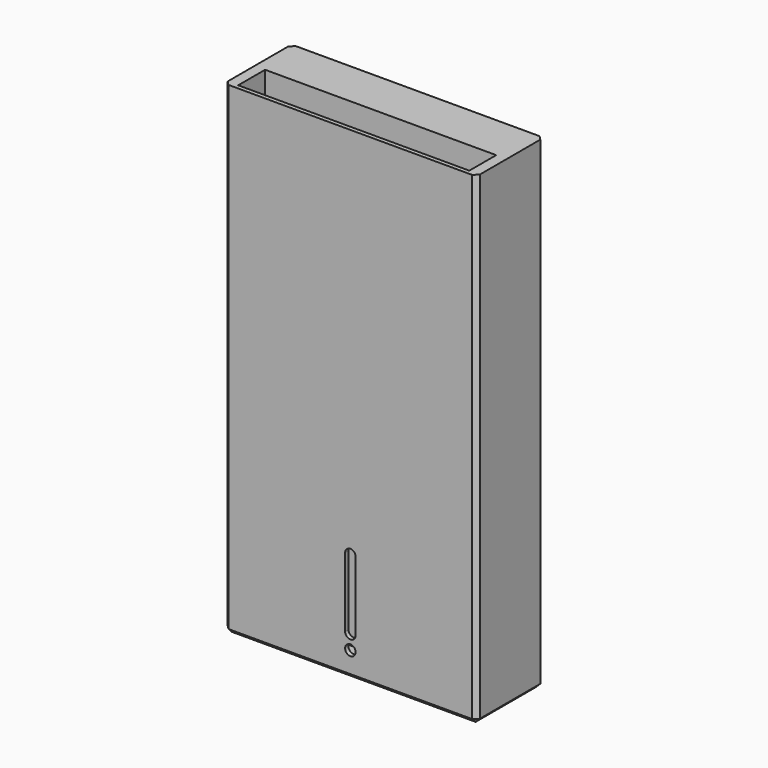
from build123d import *

# Parameters (mm, degrees)
F0_W     = 60
F0_H     = 115
F1_DEPTH = 20
F3_W     = 55.999996
F3_H     = 110.999996
F4_DEPTH = 9
F2_W     = 55
F2_H     = 8
F5_DEPTH = 114
F6_R     = 1.25
F7_DEPTH = 1
F8_SIZE  = 1


with BuildPart() as f1:
    # F0 (on Front) → F1 (new body)
    with BuildSketch(Plane.XZ):
        with Locations((30, 57.5)):
            Rectangle(F0_W, F0_H)
    extrude(amount=F1_DEPTH)

    # F3 (on face) → F4 (cut)
    with BuildSketch(Plane(origin=(0, 0, 0), x_dir=(-1, 0, 0), z_dir=(0, 1, 0))):
        with Locations((-30, 57.5)):
            Rectangle(F3_W, F3_H)
    extrude(amount=-F4_DEPTH, mode=Mode.SUBTRACT)

    # F2 (on face) → F5 (cut)
    with BuildSketch(Plane.XY.offset(115)):
        with Locations((30, -15)):
            Rectangle(F2_W, F2_H)
    extrude(amount=-F5_DEPTH, mode=Mode.SUBTRACT)

    # F6 (on face) → F7 (cut)
    with BuildSketch(Plane.XZ.offset(20)):
        with BuildLine():
            Line((28.75, 26), (28.75, 9.5))
            ThreePointArc((28.75, 9.5), (30, 8.25), (31.25, 9.5))
            Line((31.25, 9.5), (31.25, 26))
            ThreePointArc((31.25, 26), (30, 27.25), (28.75, 26))
        make_face()
        with Locations((30, 6)):
            Circle(F6_R)
    extrude(amount=-F7_DEPTH, mode=Mode.SUBTRACT)

    # F8
    f8_edges = [f1.edges().sort_by_distance(p)[0] for p in [
        (0, -20, 57.5),
        (60, -20, 57.5),
        (30, -20, 0),
        (60, -10, 0),
        (30, 0, 0),
        (0, -10, 0),
        (0, 0, 57.5),
        (60, 0, 57.5),
    ]]
    chamfer(f8_edges, length=F8_SIZE)


solid = f1.part
